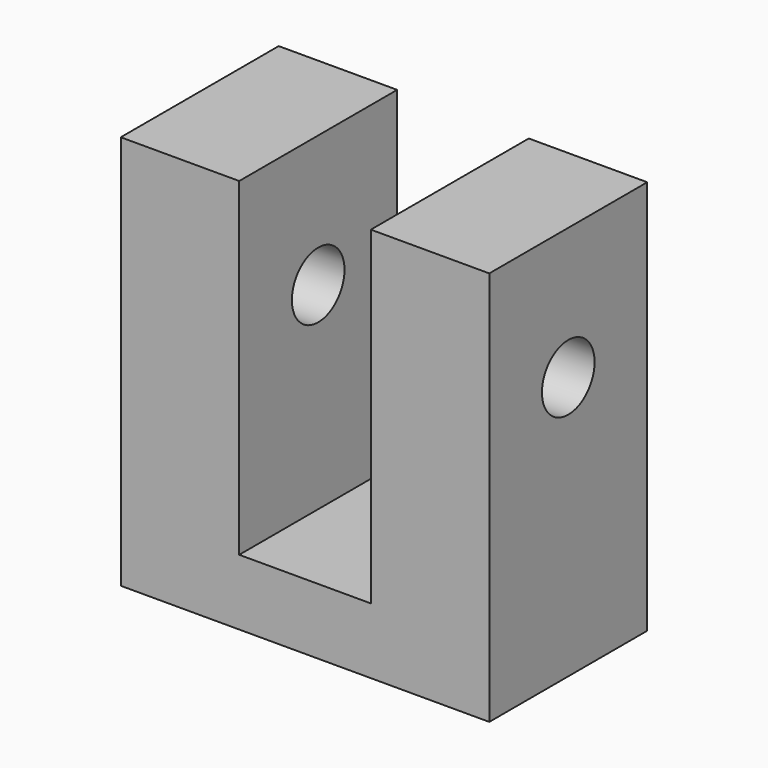
from build123d import *

# Parameters (mm, degrees)
F1_DEPTH = 19.05
F2_R     = 3.175
F3_DEPTH = 35.561
F5_D     = 6.35
F5_DEPTH = 12.7
F5_TIP   = 1.9077324654


with BuildPart() as f1:
    # F0 (on Front) → F1 (new body)
    with BuildSketch(Plane.XZ):
        Polygon((-6.35, 38.1), (-17.78, 38.1), (-17.78, 0), (17.78, 0), (17.78, 38.1), (6.35, 38.1), (6.35, 6.35), (-6.35, 6.35), align=None)
    extrude(amount=F1_DEPTH)

    # F2 (on face) → F3 (cut, through all)
    with BuildSketch(Plane.YZ.offset(17.78)):
        with Locations((-9.525, 25.4)):
            Circle(F2_R)
    extrude(amount=-F3_DEPTH, mode=Mode.SUBTRACT)

    # F5
    with Locations(Plane(origin=(0, 0, 0), x_dir=(1, 0, 0), z_dir=(0, 0, -1))):
        with Locations((-13.0048, 12.7), (13.0048, 12.7)):
            Hole(F5_D / 2, depth=F5_DEPTH)
            with Locations((0, 0, -(F5_DEPTH + F5_TIP / 2))):  # 118° drill point
                Cone(0, F5_D / 2, F5_TIP, mode=Mode.SUBTRACT)


solid = f1.part
